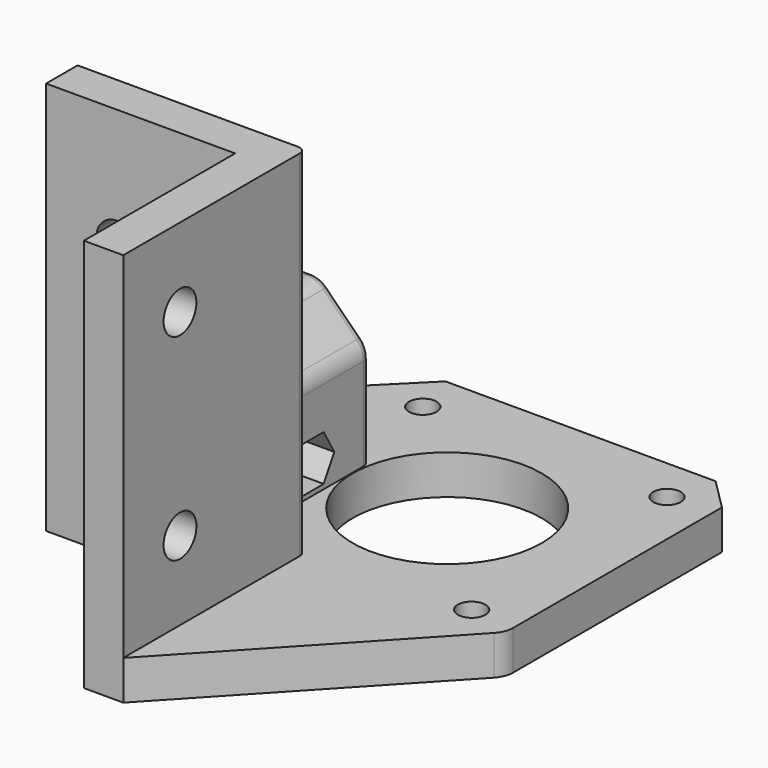
from build123d import *

# Parameters (mm, degrees)
SKETCH_R        = 12
SKETCH_R_2      = 1.75
PAD_DEPTH       = 5
PAD001_DEPTH    = 45
PAD002_DEPTH    = 19
POCKET_DEPTH    = 1
SKETCH004_R     = 4.15
POCKET001_DEPTH = 48.001
SKETCH005_R     = 2.6
POCKET002_DEPTH = 42.301
SKETCH006_R     = 2.6
POCKET003_DEPTH = 5
SKETCH008_R     = 1.75
POCKET004_DEPTH = 21.901
POCKET005_DEPTH = 5
SKETCH010_R     = 3.2
POCKET006_DEPTH = 3
SKETCH011_W     = 1
SKETCH011_H     = 10
POCKET007_DEPTH = 18.99
FILLET_R        = 3
FILLET001_R     = 1
CHAMFER_SIZE    = 1


with BuildPart() as part:
    # Sketch → Pad (new body)
    with BuildSketch(Plane.XY):
        Polygon((0, 0), (-24, 0), (-24, 5), (-15.5, 5), (-15.5, 33.95), (-7.15, 42.3), (27.15, 42.3), (31.15, 38.3), (31.15, 4), (5, -24), (0, -24), align=None)
        with Locations((10, 21.15)):
            Circle(SKETCH_R, mode=Mode.SUBTRACT)
        with Locations((-5.5, 36.65)):
            Circle(SKETCH_R_2, mode=Mode.SUBTRACT)
        with Locations((25.5, 36.65)):
            Circle(SKETCH_R_2, mode=Mode.SUBTRACT)
        with Locations((25.5, 5.65)):
            Circle(SKETCH_R_2, mode=Mode.SUBTRACT)
    extrude(amount=PAD_DEPTH)

    # Sketch001 (on Face17 of Pad) → Pad001 (join)
    with BuildSketch(Plane.XY.offset(5)):
        Polygon((0, 0), (-24, 0), (-24, 5), (5, 5), (5, -24), (0, -24), align=None)
    extrude(amount=PAD001_DEPTH)

    # Sketch002 (on Face19 of Pad001) → Pad002 (join)
    with BuildSketch(Plane(origin=(0, 5, 0), x_dir=(-1, 0, 0), z_dir=(0, 1, 0))):
        Polygon((22.9, 0), (22.9, 18), (16.9, 24), (8.1, 24), (2.1, 18), (2.1, 5), (16.5, 5), (16.5, 0), align=None)
    extrude(amount=PAD002_DEPTH)

    # Sketch003 (on Face25 of Pad002) → Pocket (cut)
    with BuildSketch(Plane(origin=(0, 5, 0), x_dir=(-1, 0, 0), z_dir=(0, 1, 0))):
        Polygon((15.5, 0), (15.5, 18), (19.2, 21.7), (22.9, 18), (22.9, 0), align=None)
    extrude(amount=POCKET_DEPTH, mode=Mode.SUBTRACT)

    # Sketch004 (on Face35 of Pocket) → Pocket001 (cut, through all)
    with BuildSketch(Plane(origin=(0, 24, 0), x_dir=(-1, 0, 0), z_dir=(0, 1, 0))):
        with Locations((12.5, 15.5)):
            Circle(SKETCH004_R)
    extrude(amount=-POCKET001_DEPTH, mode=Mode.SUBTRACT)

    # Sketch005 (on Face4 of Pocket001) → Pocket002 (cut, through all)
    with BuildSketch(Plane.XZ):
        with Locations((-15, 35)):
            Circle(SKETCH005_R)
    extrude(amount=-POCKET002_DEPTH, mode=Mode.SUBTRACT)

    # Sketch006 (on Face7 of Pocket002) → Pocket003 (cut)
    with BuildSketch(Plane(origin=(0, 0, 0), x_dir=(0, -1, 0), z_dir=(-1, 0, 0))):
        with Locations((15, 40)):
            Circle(SKETCH006_R)
        with Locations((15, 15)):
            Circle(SKETCH006_R)
    extrude(amount=-POCKET003_DEPTH, mode=Mode.SUBTRACT)

    # Sketch008 (on Face39 of Pocket003) → Pocket004 (cut, through all)
    with BuildSketch(Plane.YZ.offset(-2.1)):
        with Locations((15, 8.5)):
            Circle(SKETCH008_R)
    extrude(amount=-POCKET004_DEPTH, mode=Mode.SUBTRACT)

    # Sketch009 (on Face39 of Pocket004) → Pocket005 (cut)
    with BuildSketch(Plane.YZ.offset(-2.1)):
        Polygon((16.674316, 5.6), (18.348632, 8.5), (16.674316, 11.4), (13.325684, 11.4), (11.651368, 8.5), (13.325684, 5.6), align=None)
    extrude(amount=-POCKET005_DEPTH, mode=Mode.SUBTRACT)

    # Sketch010 (on Face42 of Pocket005) → Pocket006 (cut)
    with BuildSketch(Plane(origin=(-22.9, 0, 0), x_dir=(0, -1, 0), z_dir=(-1, 0, 0))):
        with Locations((-15, 8.5)):
            Circle(SKETCH010_R)
    extrude(amount=-POCKET006_DEPTH, mode=Mode.SUBTRACT)

    # Sketch011 (on Face35 of Pocket006) → Pocket007 (cut)
    with BuildSketch(Plane(origin=(0, 24, 0), x_dir=(-1, 0, 0), z_dir=(0, 1, 0))):
        with Locations((16, 10)):
            Rectangle(SKETCH011_W, SKETCH011_H)
    extrude(amount=-POCKET007_DEPTH, mode=Mode.SUBTRACT)

    # Fillet
    fillet_edges = [part.edges().sort_by_distance(p)[0] for p in [
        (31.15, 4, 2.5),
        (-15.5, 33.95, 2.5),
        (-2.1, 14.5, 18),
        (-8.1, 14.5, 24),
        (-16.9, 14.5, 24),
        (-22.9, 15, 18),
    ]]
    fillet(fillet_edges, radius=FILLET_R)

    # Fillet001
    fillet001_edges = [part.edges().sort_by_distance(p)[0] for p in [
        (5, 5, 27.5),
        (-2.1, 24, 10.87868),
        (-19.2, 5.5, 21.7),
        (-20.61066, 6, 20.28934),
    ]]
    fillet(fillet001_edges, radius=FILLET001_R)

    # Chamfer
    chamfer_edges = [part.edges().sort_by_distance(p)[0] for p in [
        (-8.648215, 24, 17.044749),
    ]]
    chamfer(chamfer_edges, length=CHAMFER_SIZE)


solid = part.part
